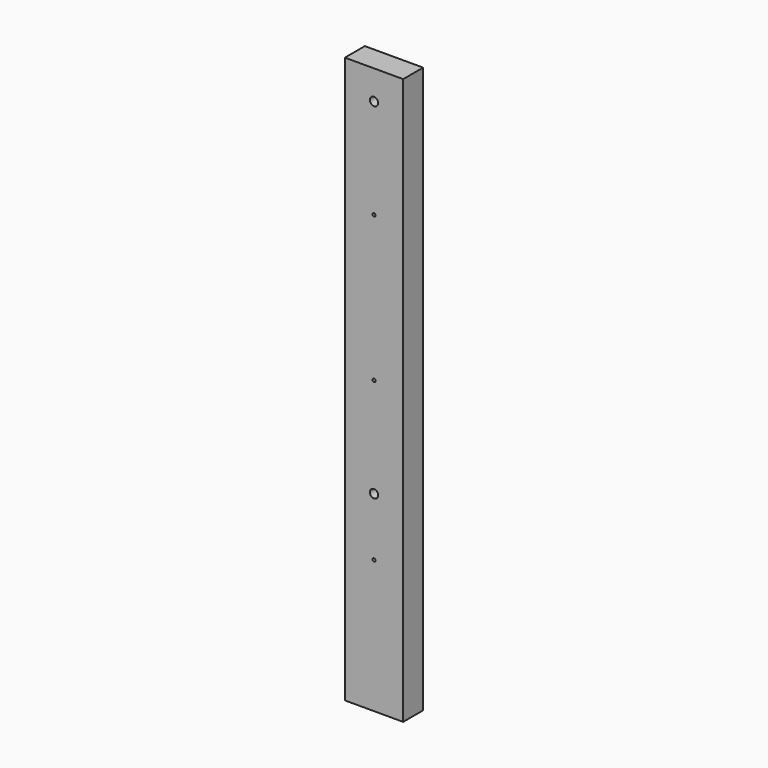
from build123d import *

# Parameters (mm, degrees)
SKETCH002_AS_DRAWN_R                 = 2.38125
EXTRUDE002_DEPTH                     = 12.7
EXTRUDE002_ONTO_SKETCH002_ROLL_ANGLE = 90
SKETCH001_AS_DRAWN_R                 = 6.35
EXTRUDE001_DEPTH                     = 50.8
EXTRUDE001_ONTO_SKETCH001_ROLL_ANGLE = 90
SKETCH_W                             = 88.9
SKETCH_H                             = 38.1
EXTRUDE_DEPTH                        = 863.6


with BuildPart() as extrude002:
    # Sketch002 as drawn → Extrude002 (new)
    with BuildSketch(Plane.XY):
        with Locations((44.45, 203.2)):
            Circle(SKETCH002_AS_DRAWN_R)
        with Locations((44.45, 666.75)):
            Circle(SKETCH002_AS_DRAWN_R)
        with Locations((44.45, 444.5)):
            Circle(SKETCH002_AS_DRAWN_R)
    extrude(amount=-EXTRUDE002_DEPTH)


with BuildPart() as extrude002_1:
    # Extrude002 onto Sketch002 roll: moved
    add(extrude002.part.rotate(Axis((0, 0, 0), (1, 0, 0)), EXTRUDE002_ONTO_SKETCH002_ROLL_ANGLE))


with BuildPart() as extrude002_2:
    # Extrude002 onto Sketch002 placement: moved
    add(extrude002_1.part)


with BuildPart() as extrude001:
    # Sketch001 as drawn → Extrude001 (new)
    with BuildSketch(Plane.XY):
        with Locations((44.45, 292.1)):
            Circle(SKETCH001_AS_DRAWN_R)
        with Locations((44.45, 819.15)):
            Circle(SKETCH001_AS_DRAWN_R)
    extrude(amount=-EXTRUDE001_DEPTH)


with BuildPart() as extrude001_1:
    # Extrude001 onto Sketch001 roll: moved
    add(extrude001.part.rotate(Axis((0, 0, 0), (1, 0, 0)), EXTRUDE001_ONTO_SKETCH001_ROLL_ANGLE))


with BuildPart() as extrude001_2:
    # Extrude001 onto Sketch001 placement: moved
    add(extrude001_1.part)


with BuildPart() as cut001:
    # Sketch → Extrude (new body)
    with BuildSketch(Plane.XY):
        with Locations((44.45, 19.05)):
            Rectangle(SKETCH_W, SKETCH_H)
    extrude(amount=EXTRUDE_DEPTH)

    # Cut: cut Extrude001
    add(extrude001_2.part, mode=Mode.SUBTRACT)

    # Cut001: cut Extrude002
    add(extrude002_2.part, mode=Mode.SUBTRACT)


solid = cut001.part
